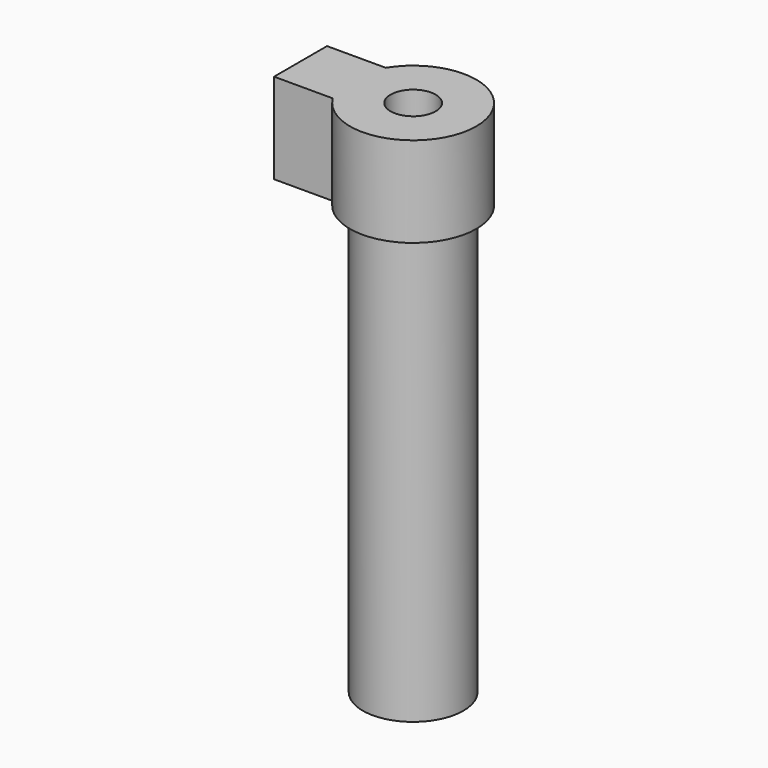
from build123d import *

# Parameters (mm, degrees)
F0_R     = 16.7005
F0_R_2   = 13.3223
F1_DEPTH = 162.306
F5_W     = 22
F5_H     = 30
F6_DEPTH = 20


with BuildPart() as f1:
    # F0 (on Top) → F1 (new body)
    with BuildSketch(Plane.XY):
        Circle(F0_R)
        Circle(F0_R_2, mode=Mode.SUBTRACT)
    extrude(amount=F1_DEPTH)


with BuildPart() as f3:
    # F2 (on Front) → F3 (revolve)
    with BuildSketch(Plane.XZ):
        Polygon((-21.0005, 142.306), (-17.0005, 142.306), (-17.0005, 162.306), (-13.0223, 162.306), (-13.0223, 142.306), (-2.2, 142.306), (-2.2, 152.306), (-7.5, 152.306), (-7.5, 172.306), (-21.0005, 172.306), align=None)
    revolve(axis=Axis((0, 0, 103.938333), (0, 0, 1)))

    # F5 (on offset) → F6 (join)
    with BuildSketch(Plane.YZ.offset(-17.4)):
        with Locations((0, 157.306)):
            Rectangle(F5_W, F5_H)
    extrude(amount=-F6_DEPTH)


solid = Compound([f1.part, f3.part])
